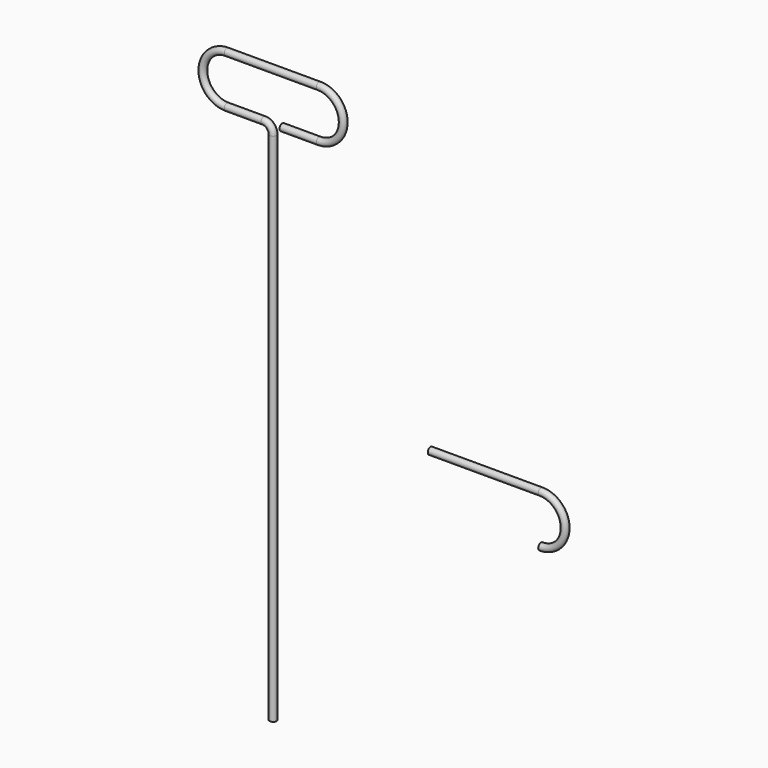
from build123d import *

# Parameters (mm, degrees)
F2_R = 2.38125
F5_R = 2.38125


with BuildPart() as f3:
    # F3: sweep along a path in F0
    with BuildLine(Plane.XZ) as f3_path:
        Line((-51.6694978738, -339.333212393), (-51.6694978738, 16.266787607))
        ThreePointArc((-51.6694978738, 16.266787607), (-53.5293698133, 20.7569156676), (-58.0194978738, 22.616787607))
        Line((-58.0194978738, 22.616787607), (-83.4194978738, 22.616787607))
        ThreePointArc((-83.4194978738, 22.616787607), (-100.0882478738, 39.285537607), (-83.4194978738, 55.954287607))
        Line((-83.4194978738, 55.954287607), (-19.9194978738, 55.954287607))
        ThreePointArc((-19.9194978738, 55.954287607), (-3.2507478738, 39.285537607), (-19.9194978738, 22.616787607))
        Line((-19.9194978738, 22.616787607), (-45.3194978738, 22.616787607))
    # F2 (on line) → F3 (sweep)
    with BuildSketch(Plane(origin=(0, 0, -339.333212393), x_dir=(1, 0, 0), z_dir=(0, 0, -1))):
        with Locations((-51.6694978738, 0)):
            Circle(F2_R)
    sweep(path=f3_path.line)


with BuildPart() as f6:
    # F6: sweep along a path in F0
    with BuildLine(Plane.XZ) as f6_path:
        Line((56.9402764933, -140.5850901604), (133.1402764933, -140.5850901604))
        ThreePointArc((133.1402764933, -140.5850901604), (149.8090264933, -157.2538401604), (133.1402764933, -173.9225901604))
    # F5 (on line) → F6 (sweep)
    with BuildSketch(Plane.YZ.offset(56.9402764933)):
        with Locations((0, -140.5850901604)):
            Circle(F5_R)
    sweep(path=f6_path.line)


solid = Compound([f3.part, f6.part])
